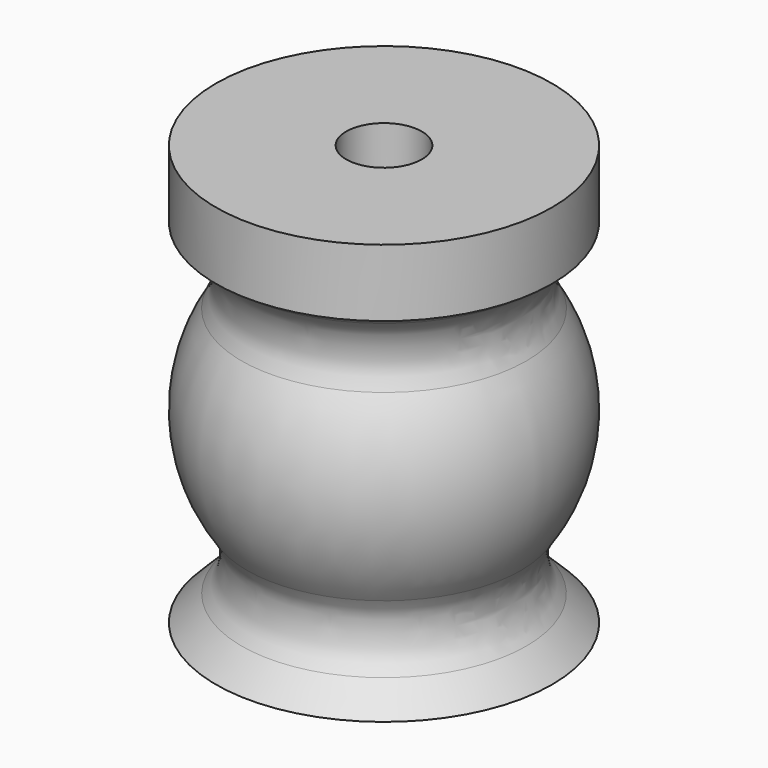
from build123d import *

# Parameters (mm, degrees)
F2_R = 3


with BuildPart() as f1:
    # F0 (on Front) → F1 (revolve)
    with BuildSketch(Plane.XZ):
        with BuildLine():
            Line((3, 3), (6, 0))
            Line((6, 0), (10, 0))
            Line((10, 0), (6.459269, 3.540731))
            ThreePointArc((6.459269, 3.540731), (9.999261, 11.053134), (6.642988, 18.649395))
            Line((6.642988, 18.649395), (10, 21))
            Line((10, 21), (10, 25))
            Line((10, 25), (2.25, 25))
            Line((2.25, 25), (2.25, 17.80326))
            ThreePointArc((2.25, 17.80326), (6.988295, 11.579354), (3, 4.850168))
            Line((3, 4.850168), (3, 3))
        make_face()
    revolve(axis=Axis((0, 0, 25), (0, 0, 1)))

    # F2
    f2_edges = [f1.edges().sort_by_distance(p)[0] for p in [
        (-6.642988, 0, 18.649395),
        (-6.459269, 0, 3.540731),
    ]]
    fillet(f2_edges, radius=F2_R)


solid = f1.part
